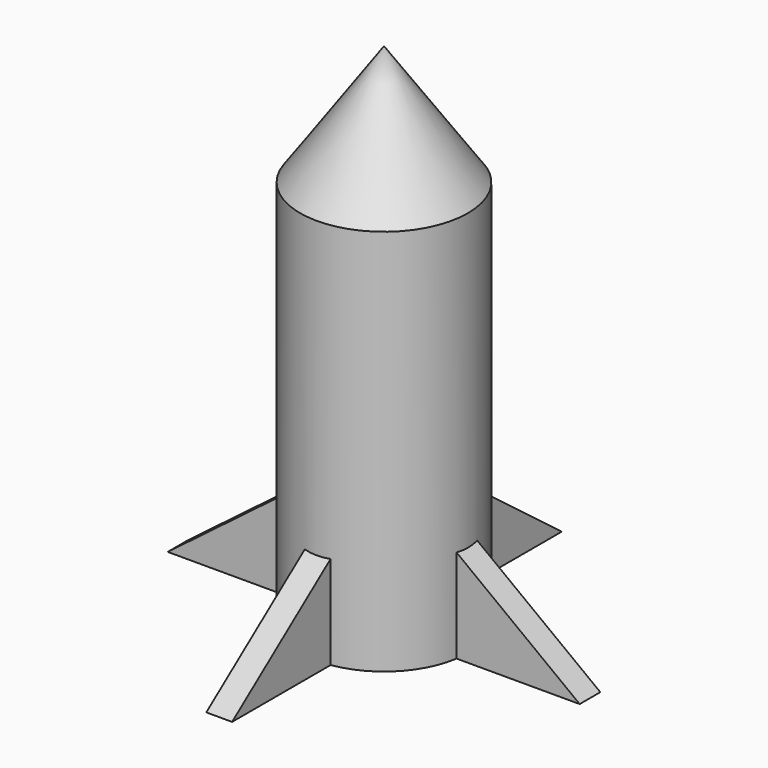
from build123d import *

# Parameters (mm, degrees)
F0_R      = 16.51
F0_R_2    = 12.7
F1_DEPTH  = 76.2
F1_FACE_R = 16.51
F2_DEPTH  = 25.4
F2_TAPER  = 35
F4_DEPTH  = 2.54
F5_COUNT  = 4
F6_R      = 11.43
F7_DEPTH  = 73.914


with BuildPart() as f1:
    # F0 (on Top) → F1 (new body)
    with BuildSketch(Plane.XY):
        Circle(F0_R)
        Circle(F0_R_2, mode=Mode.SUBTRACT)
        Circle(F0_R_2)
    extrude(amount=F1_DEPTH)

    # F1_face (on face) → F2 (join)
    with BuildSketch(Plane.XY.offset(76.2)):
        Circle(F1_FACE_R)
    extrude(amount=F2_DEPTH, taper=F2_TAPER)

    # F3 (on Right) → F4 (join, symmetric)
    with BuildSketch(Plane.YZ):
        Polygon((-40.5384004116, 0), (-15.8495996147, 0), (-15.8495996147, 18.7452007085), align=None)
    extrude(amount=F4_DEPTH, both=True)

    # F5: F1 ×4 about axis
    f5_axis = Axis((0, 0, 76.2), (0, 0, 1))


with BuildPart() as f1_1:
    add(f1.part)
    for i in range(1, F5_COUNT):
        add(f1.part.rotate(f5_axis, i * 360 / F5_COUNT))

    # F6 (on face) → F7 (cut)
    with BuildSketch(Plane(origin=(0, 0, 0), x_dir=(1, 0, 0), z_dir=(0, 0, -1))):
        Circle(F6_R)
    extrude(amount=-F7_DEPTH, mode=Mode.SUBTRACT)


solid = f1_1.part
